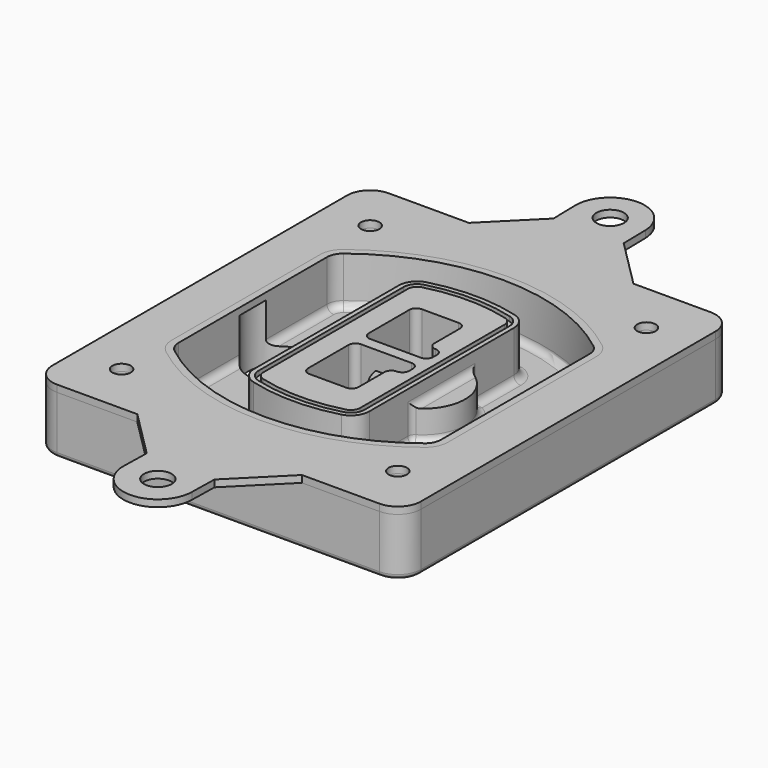
from build123d import *

# Parameters (mm, degrees)
F0_R      = 4
F1_DEPTH  = 25
F2_DEPTH  = 3
F3_DEPTH  = 18
F5_DEPTH  = 21
F6_DEPTH  = 2
F8_DEPTH  = 20
F9_DEPTH  = 16
F10_DEPTH = 25
F7_R      = 6
F7_R_2    = 4
F11_DEPTH = 6
F13_DEPTH = 9
F14_R     = 3
F15_R     = 2
F16_R     = 6
F16_R_2   = 4
F17_DEPTH = 3


with BuildPart() as f1:
    # F0 (on Top) → F1 (new body)
    with BuildSketch(Plane.XY):
        with BuildLine():
            ThreePointArc((-80, -80), (-77.0710678119, -87.0710678119), (-70, -90))
            Line((-70, -90), (70, -90))
            ThreePointArc((70, -90), (77.0710678119, -87.0710678119), (80, -80))
            Line((80, -80), (80, 80))
            ThreePointArc((80, 80), (77.0710678119, 87.0710678119), (70, 90))
            Line((70, 90), (-70, 90))
            ThreePointArc((-70, 90), (-77.0710678119, 87.0710678119), (-80, 80))
            Line((-80, 80), (-80, -80))
        make_face()
        with Locations((-60, -67.5)):
            Circle(F0_R, mode=Mode.SUBTRACT)
        with Locations((60, -67.5)):
            Circle(F0_R, mode=Mode.SUBTRACT)
        with Locations((-60, 67.5)):
            Circle(F0_R, mode=Mode.SUBTRACT)
        with BuildLine():
            ThreePointArc((-64, 40.2934422872), (-62.5820384798, 46.4328484224), (-58.6153846154, 51.3286200352))
            ThreePointArc((-58.6153846154, 51.3286200352), (0, 71.5), (58.6153846154, 51.3286200352))
            ThreePointArc((58.6153846154, 51.3286200352), (62.5820384798, 46.4328484224), (64, 40.2934422872))
            Line((64, 40.2934422872), (64, -40.2934422872))
            ThreePointArc((64, -40.2934422872), (62.5820384798, -46.4328484224), (58.6153846154, -51.3286200352))
            ThreePointArc((58.6153846154, -51.3286200352), (0, -71.5), (-58.6153846154, -51.3286200352))
            ThreePointArc((-58.6153846154, -51.3286200352), (-62.5820384798, -46.4328484224), (-64, -40.2934422872))
            Line((-64, -40.2934422872), (-64, 40.2934422872))
        make_face(mode=Mode.SUBTRACT)
        with Locations((60, 67.5)):
            Circle(F0_R, mode=Mode.SUBTRACT)
        with BuildLine():
            ThreePointArc((58.6153846154, 51.3286200352), (0, 71.5), (-58.6153846154, 51.3286200352))
            ThreePointArc((-58.6153846154, 51.3286200352), (-62.5820384798, 46.4328484224), (-64, 40.2934422872))
            Line((-64, 40.2934422872), (-64, -40.2934422872))
            ThreePointArc((-64, -40.2934422872), (-62.5820384798, -46.4328484224), (-58.6153846154, -51.3286200352))
            ThreePointArc((-58.6153846154, -51.3286200352), (0, -71.5), (58.6153846154, -51.3286200352))
            ThreePointArc((58.6153846154, -51.3286200352), (62.5820384798, -46.4328484224), (64, -40.2934422872))
            Line((64, -40.2934422872), (64, 40.2934422872))
            ThreePointArc((64, 40.2934422872), (62.5820384798, 46.4328484224), (58.6153846154, 51.3286200352))
        make_face()
        with BuildLine():
            Line((-60, -40.2934422872), (-60, 40.2934422872))
            ThreePointArc((-60, 40.2934422872), (-58.9871703427, 44.6787323838), (-56.1538461538, 48.1757121072))
            ThreePointArc((-56.1538461538, 48.1757121072), (0, 67.5), (56.1538461538, 48.1757121072))
            ThreePointArc((56.1538461538, 48.1757121072), (58.9871703427, 44.6787323838), (60, 40.2934422872))
            Line((60, 40.2934422872), (60, -40.2934422872))
            ThreePointArc((60, -40.2934422872), (58.9871703427, -44.6787323838), (56.1538461538, -48.1757121072))
            ThreePointArc((56.1538461538, -48.1757121072), (0, -67.5), (-56.1538461538, -48.1757121072))
            ThreePointArc((-56.1538461538, -48.1757121072), (-58.9871703427, -44.6787323838), (-60, -40.2934422872))
        make_face(mode=Mode.SUBTRACT)
        with BuildLine():
            ThreePointArc((-56.1538461538, 48.1757121072), (-58.9871703427, 44.6787323838), (-60, 40.2934422872))
            Line((-60, 40.2934422872), (-60, -40.2934422872))
            ThreePointArc((-60, -40.2934422872), (-58.9871703427, -44.6787323838), (-56.1538461538, -48.1757121072))
            ThreePointArc((-56.1538461538, -48.1757121072), (0, -67.5), (56.1538461538, -48.1757121072))
            ThreePointArc((56.1538461538, -48.1757121072), (58.9871703427, -44.6787323838), (60, -40.2934422872))
            Line((60, -40.2934422872), (60, 40.2934422872))
            ThreePointArc((60, 40.2934422872), (58.9871703427, 44.6787323838), (56.1538461538, 48.1757121072))
            ThreePointArc((56.1538461538, 48.1757121072), (0, 67.5), (-56.1538461538, 48.1757121072))
        make_face()
        with BuildLine():
            ThreePointArc((54.3076923077, 45.8110311612), (56.2910192399, 43.3631453548), (57, 40.2934422872))
            Line((57, 40.2934422872), (57, -40.2934422872))
            ThreePointArc((57, -40.2934422872), (56.2910192399, -43.3631453548), (54.3076923077, -45.8110311612))
            ThreePointArc((54.3076923077, -45.8110311612), (0, -64.5), (-54.3076923077, -45.8110311612))
            ThreePointArc((-54.3076923077, -45.8110311612), (-56.2910192399, -43.3631453548), (-57, -40.2934422872))
            Line((-57, -40.2934422872), (-57, 40.2934422872))
            ThreePointArc((-57, 40.2934422872), (-56.2910192399, 43.3631453548), (-54.3076923077, 45.8110311612))
            ThreePointArc((-54.3076923077, 45.8110311612), (0, 64.5), (54.3076923077, 45.8110311612))
        make_face(mode=Mode.SUBTRACT)
        with BuildLine():
            Line((57, -40.2934422872), (57, 40.2934422872))
            ThreePointArc((57, 40.2934422872), (56.2910192399, 43.3631453548), (54.3076923077, 45.8110311612))
            ThreePointArc((54.3076923077, 45.8110311612), (0, 64.5), (-54.3076923077, 45.8110311612))
            ThreePointArc((-54.3076923077, 45.8110311612), (-56.2910192399, 43.3631453548), (-57, 40.2934422872))
            Line((-57, 40.2934422872), (-57, -40.2934422872))
            ThreePointArc((-57, -40.2934422872), (-56.2910192399, -43.3631453548), (-54.3076923077, -45.8110311612))
            ThreePointArc((-54.3076923077, -45.8110311612), (0, -64.5), (54.3076923077, -45.8110311612))
            ThreePointArc((54.3076923077, -45.8110311612), (56.2910192399, -43.3631453548), (57, -40.2934422872))
        make_face()
    extrude(amount=-F1_DEPTH)

    # F0 (on Top) → F2 (join)
    with BuildSketch(Plane.XY):
        with BuildLine():
            ThreePointArc((-56.1538461538, 48.1757121072), (-58.9871703427, 44.6787323838), (-60, 40.2934422872))
            Line((-60, 40.2934422872), (-60, -40.2934422872))
            ThreePointArc((-60, -40.2934422872), (-58.9871703427, -44.6787323838), (-56.1538461538, -48.1757121072))
            ThreePointArc((-56.1538461538, -48.1757121072), (0, -67.5), (56.1538461538, -48.1757121072))
            ThreePointArc((56.1538461538, -48.1757121072), (58.9871703427, -44.6787323838), (60, -40.2934422872))
            Line((60, -40.2934422872), (60, 40.2934422872))
            ThreePointArc((60, 40.2934422872), (58.9871703427, 44.6787323838), (56.1538461538, 48.1757121072))
            ThreePointArc((56.1538461538, 48.1757121072), (0, 67.5), (-56.1538461538, 48.1757121072))
        make_face()
        with BuildLine():
            ThreePointArc((54.3076923077, 45.8110311612), (56.2910192399, 43.3631453548), (57, 40.2934422872))
            Line((57, 40.2934422872), (57, -40.2934422872))
            ThreePointArc((57, -40.2934422872), (56.2910192399, -43.3631453548), (54.3076923077, -45.8110311612))
            ThreePointArc((54.3076923077, -45.8110311612), (0, -64.5), (-54.3076923077, -45.8110311612))
            ThreePointArc((-54.3076923077, -45.8110311612), (-56.2910192399, -43.3631453548), (-57, -40.2934422872))
            Line((-57, -40.2934422872), (-57, 40.2934422872))
            ThreePointArc((-57, 40.2934422872), (-56.2910192399, 43.3631453548), (-54.3076923077, 45.8110311612))
            ThreePointArc((-54.3076923077, 45.8110311612), (0, 64.5), (54.3076923077, 45.8110311612))
        make_face(mode=Mode.SUBTRACT)
    extrude(amount=F2_DEPTH)

    # F0 (on Top) → F3 (cut)
    with BuildSketch(Plane.XY):
        with BuildLine():
            Line((57, -40.2934422872), (57, 40.2934422872))
            ThreePointArc((57, 40.2934422872), (56.2910192399, 43.3631453548), (54.3076923077, 45.8110311612))
            ThreePointArc((54.3076923077, 45.8110311612), (0, 64.5), (-54.3076923077, 45.8110311612))
            ThreePointArc((-54.3076923077, 45.8110311612), (-56.2910192399, 43.3631453548), (-57, 40.2934422872))
            Line((-57, 40.2934422872), (-57, -40.2934422872))
            ThreePointArc((-57, -40.2934422872), (-56.2910192399, -43.3631453548), (-54.3076923077, -45.8110311612))
            ThreePointArc((-54.3076923077, -45.8110311612), (0, -64.5), (54.3076923077, -45.8110311612))
            ThreePointArc((54.3076923077, -45.8110311612), (56.2910192399, -43.3631453548), (57, -40.2934422872))
        make_face()
    extrude(amount=-F3_DEPTH, mode=Mode.SUBTRACT)

    # F4 (on face) → F5 (join, through all)
    with BuildSketch(Plane.XY.offset(3)):
        with BuildLine():
            ThreePointArc((-25, -39.2465276821), (-23.3511545998, -44.1109737193), (-19.0842911877, -46.9702398883))
            ThreePointArc((-19.0842911877, -46.9702398883), (0, -49.5), (19.0842911877, -46.9702398883))
            ThreePointArc((19.0842911877, -46.9702398883), (23.3511545998, -44.1109737193), (25, -39.2465276821))
            Line((25, -39.2465276821), (25, 39.2465276821))
            ThreePointArc((25, 39.2465276821), (23.3511545998, 44.1109737193), (19.0842911877, 46.9702398883))
            ThreePointArc((19.0842911877, 46.9702398883), (0, 49.5), (-19.0842911877, 46.9702398883))
            ThreePointArc((-19.0842911877, 46.9702398883), (-23.3511545998, 44.1109737193), (-25, 39.2465276821))
            Line((-25, 39.2465276821), (-25, -39.2465276821))
        make_face()
        with BuildLine():
            ThreePointArc((18.5632183908, 45.0393118368), (21.7633659499, 42.89486221), (23, 39.2465276821))
            Line((23, 39.2465276821), (23, -39.2465276821))
            ThreePointArc((23, -39.2465276821), (21.7633659499, -42.89486221), (18.5632183908, -45.0393118368))
            ThreePointArc((18.5632183908, -45.0393118368), (0, -47.5), (-18.5632183908, -45.0393118368))
            ThreePointArc((-18.5632183908, -45.0393118368), (-21.7633659499, -42.89486221), (-23, -39.2465276821))
            Line((-23, -39.2465276821), (-23, 39.2465276821))
            ThreePointArc((-23, 39.2465276821), (-21.7633659499, 42.89486221), (-18.5632183908, 45.0393118368))
            ThreePointArc((-18.5632183908, 45.0393118368), (0, 47.5), (18.5632183908, 45.0393118368))
        make_face(mode=Mode.SUBTRACT)
        with BuildLine():
            Line((23, -39.2465276821), (23, 39.2465276821))
            ThreePointArc((23, 39.2465276821), (21.7633659499, 42.89486221), (18.5632183908, 45.0393118368))
            ThreePointArc((18.5632183908, 45.0393118368), (0, 47.5), (-18.5632183908, 45.0393118368))
            ThreePointArc((-18.5632183908, 45.0393118368), (-21.7633659499, 42.89486221), (-23, 39.2465276821))
            Line((-23, 39.2465276821), (-23, -39.2465276821))
            ThreePointArc((-23, -39.2465276821), (-21.7633659499, -42.89486221), (-18.5632183908, -45.0393118368))
            ThreePointArc((-18.5632183908, -45.0393118368), (0, -47.5), (18.5632183908, -45.0393118368))
            ThreePointArc((18.5632183908, -45.0393118368), (21.7633659499, -42.89486221), (23, -39.2465276821))
        make_face()
        with BuildLine():
            ThreePointArc((18.0421455939, 43.1083837852), (20.1755772999, 41.6787507007), (21, 39.2465276821))
            Line((21, 39.2465276821), (21, -39.2465276821))
            ThreePointArc((21, -39.2465276821), (20.1755772999, -41.6787507007), (18.0421455939, -43.1083837852))
            ThreePointArc((18.0421455939, -43.1083837852), (0, -45.5), (-18.0421455939, -43.1083837852))
            ThreePointArc((-18.0421455939, -43.1083837852), (-20.1755772999, -41.6787507007), (-21, -39.2465276821))
            Line((-21, -39.2465276821), (-21, 39.2465276821))
            ThreePointArc((-21, 39.2465276821), (-20.1755772999, 41.6787507007), (-18.0421455939, 43.1083837852))
            ThreePointArc((-18.0421455939, 43.1083837852), (0, 45.5), (18.0421455939, 43.1083837852))
        make_face(mode=Mode.SUBTRACT)
        with BuildLine():
            Line((21, -39.2465276821), (21, 39.2465276821))
            ThreePointArc((21, 39.2465276821), (20.1755772999, 41.6787507007), (18.0421455939, 43.1083837852))
            ThreePointArc((18.0421455939, 43.1083837852), (0, 45.5), (-18.0421455939, 43.1083837852))
            ThreePointArc((-18.0421455939, 43.1083837852), (-20.1755772999, 41.6787507007), (-21, 39.2465276821))
            Line((-21, 39.2465276821), (-21, -39.2465276821))
            ThreePointArc((-21, -39.2465276821), (-20.1755772999, -41.6787507007), (-18.0421455939, -43.1083837852))
            ThreePointArc((-18.0421455939, -43.1083837852), (0, -45.5), (18.0421455939, -43.1083837852))
            ThreePointArc((18.0421455939, -43.1083837852), (20.1755772999, -41.6787507007), (21, -39.2465276821))
        make_face()
        with BuildLine():
            Line((-8, -2.5), (14, -2.5))
            ThreePointArc((14, -2.5), (16.1213203436, -3.3786796564), (17, -5.5))
            Line((17, -5.5), (17, -7.5))
            ThreePointArc((17, -7.5), (16.1213203436, -9.6213203436), (14, -10.5))
            ThreePointArc((14, -10.5), (11.8786796564, -11.3786796564), (11, -13.5))
            Line((11, -13.5), (11, -27.5))
            ThreePointArc((11, -27.5), (10.1213203436, -29.6213203436), (8, -30.5))
            Line((8, -30.5), (-8, -30.5))
            ThreePointArc((-8, -30.5), (-10.1213203436, -29.6213203436), (-11, -27.5))
            Line((-11, -27.5), (-11, -5.5))
            ThreePointArc((-11, -5.5), (-10.1213203436, -3.3786796564), (-8, -2.5))
        make_face(mode=Mode.SUBTRACT)
        with BuildLine():
            ThreePointArc((-8, 2.5), (-10.1213203436, 3.3786796564), (-11, 5.5))
            Line((-11, 5.5), (-11, 27.5))
            ThreePointArc((-11, 27.5), (-10.1213203436, 29.6213203436), (-8, 30.5))
            Line((-8, 30.5), (8, 30.5))
            ThreePointArc((8, 30.5), (10.1213203436, 29.6213203436), (11, 27.5))
            Line((11, 27.5), (11, 13.5))
            ThreePointArc((11, 13.5), (11.8786796564, 11.3786796564), (14, 10.5))
            ThreePointArc((14, 10.5), (16.1213203436, 9.6213203436), (17, 7.5))
            Line((17, 7.5), (17, 5.5))
            ThreePointArc((17, 5.5), (16.1213203436, 3.3786796564), (14, 2.5))
            Line((14, 2.5), (-8, 2.5))
        make_face(mode=Mode.SUBTRACT)
    extrude(amount=-F5_DEPTH)

    # F4 (on face) → F6 (cut)
    with BuildSketch(Plane.XY.offset(3)):
        with BuildLine():
            Line((23, -39.2465276821), (23, 39.2465276821))
            ThreePointArc((23, 39.2465276821), (21.7633659499, 42.89486221), (18.5632183908, 45.0393118368))
            ThreePointArc((18.5632183908, 45.0393118368), (0, 47.5), (-18.5632183908, 45.0393118368))
            ThreePointArc((-18.5632183908, 45.0393118368), (-21.7633659499, 42.89486221), (-23, 39.2465276821))
            Line((-23, 39.2465276821), (-23, -39.2465276821))
            ThreePointArc((-23, -39.2465276821), (-21.7633659499, -42.89486221), (-18.5632183908, -45.0393118368))
            ThreePointArc((-18.5632183908, -45.0393118368), (0, -47.5), (18.5632183908, -45.0393118368))
            ThreePointArc((18.5632183908, -45.0393118368), (21.7633659499, -42.89486221), (23, -39.2465276821))
        make_face()
        with BuildLine():
            ThreePointArc((18.0421455939, 43.1083837852), (20.1755772999, 41.6787507007), (21, 39.2465276821))
            Line((21, 39.2465276821), (21, -39.2465276821))
            ThreePointArc((21, -39.2465276821), (20.1755772999, -41.6787507007), (18.0421455939, -43.1083837852))
            ThreePointArc((18.0421455939, -43.1083837852), (0, -45.5), (-18.0421455939, -43.1083837852))
            ThreePointArc((-18.0421455939, -43.1083837852), (-20.1755772999, -41.6787507007), (-21, -39.2465276821))
            Line((-21, -39.2465276821), (-21, 39.2465276821))
            ThreePointArc((-21, 39.2465276821), (-20.1755772999, 41.6787507007), (-18.0421455939, 43.1083837852))
            ThreePointArc((-18.0421455939, 43.1083837852), (0, 45.5), (18.0421455939, 43.1083837852))
        make_face(mode=Mode.SUBTRACT)
    extrude(amount=-F6_DEPTH, mode=Mode.SUBTRACT)

    # F7 (on face) → F8 (join)
    with BuildSketch(Plane(origin=(0, 0, -25), x_dir=(1, 0, 0), z_dir=(0, 0, -1))):
        with BuildLine():
            ThreePointArc((3.28842436, 0), (16.7567035675, 13.4682792075), (30.224982775, 0))
            Line((30.224982775, 0), (35.224982775, 0))
            ThreePointArc((35.224982775, 0), (16.7567035675, 18.4682792075), (-1.71157564, 0))
            Line((-1.71157564, 0), (3.28842436, 0))
        make_face()
        with BuildLine():
            Line((3.28842436, 0), (30.224982775, 0))
            ThreePointArc((30.224982775, 0), (16.7567035675, 13.4682792075), (3.28842436, 0))
        make_face()
        with BuildLine():
            ThreePointArc((3.28842436, 0), (16.7567035675, -13.4682792075), (30.224982775, 0))
            Line((30.224982775, 0), (3.28842436, 0))
        make_face()
        with BuildLine():
            Line((35.224982775, 0), (30.224982775, 0))
            ThreePointArc((30.224982775, 0), (16.7567035675, -13.4682792075), (3.28842436, 0))
            Line((3.28842436, 0), (-1.71157564, 0))
            ThreePointArc((-1.71157564, 0), (16.7567035675, -18.4682792075), (35.224982775, 0))
        make_face()
    extrude(amount=-F8_DEPTH)

    # F7 (on face) → F9 (cut)
    with BuildSketch(Plane(origin=(0, 0, -25), x_dir=(1, 0, 0), z_dir=(0, 0, -1))):
        with BuildLine():
            Line((3.28842436, 0), (30.224982775, 0))
            ThreePointArc((30.224982775, 0), (16.7567035675, 13.4682792075), (3.28842436, 0))
        make_face()
        with BuildLine():
            ThreePointArc((3.28842436, 0), (16.7567035675, -13.4682792075), (30.224982775, 0))
            Line((30.224982775, 0), (3.28842436, 0))
        make_face()
    extrude(amount=-F9_DEPTH, mode=Mode.SUBTRACT)

    # F7 (on face) → F10 (cut)
    with BuildSketch(Plane(origin=(0, 0, -25), x_dir=(1, 0, 0), z_dir=(0, 0, -1))):
        with BuildLine():
            Line((-59.0318229325, 0), (-32.0952645175, 0))
            ThreePointArc((-32.0952645175, 0), (-45.563543725, 13.4682792075), (-59.0318229325, 0))
        make_face()
        with BuildLine():
            ThreePointArc((-59.0318229325, 0), (-45.563543725, -13.4682792075), (-32.0952645175, 0))
            Line((-32.0952645175, 0), (-59.0318229325, 0))
        make_face()
    extrude(amount=-F10_DEPTH, mode=Mode.SUBTRACT)

    # F7 (on face) → F11 (cut)
    with BuildSketch(Plane(origin=(0, 0, -25), x_dir=(1, 0, 0), z_dir=(0, 0, -1))):
        with Locations((60, -67.5)):
            Circle(F7_R)
        with Locations((60, -67.5)):
            Circle(F7_R_2, mode=Mode.SUBTRACT)
        with Locations((60, -67.5)):
            Circle(F7_R)
        with Locations((60, -67.5)):
            Circle(F7_R_2, mode=Mode.SUBTRACT)
        with Locations((-60, -67.5)):
            Circle(F7_R)
        with Locations((-60, -67.5)):
            Circle(F7_R_2, mode=Mode.SUBTRACT)
        with Locations((-60, -67.5)):
            Circle(F7_R)
        with Locations((-60, -67.5)):
            Circle(F7_R_2, mode=Mode.SUBTRACT)
        with Locations((-60, 67.5)):
            Circle(F7_R)
        with Locations((-60, 67.5)):
            Circle(F7_R_2, mode=Mode.SUBTRACT)
        with Locations((-60, 67.5)):
            Circle(F7_R)
        with Locations((-60, 67.5)):
            Circle(F7_R_2, mode=Mode.SUBTRACT)
        with Locations((60, 67.5)):
            Circle(F7_R)
        with Locations((60, 67.5)):
            Circle(F7_R_2, mode=Mode.SUBTRACT)
        with Locations((60, 67.5)):
            Circle(F7_R)
        with Locations((60, 67.5)):
            Circle(F7_R_2, mode=Mode.SUBTRACT)
    extrude(amount=-F11_DEPTH, mode=Mode.SUBTRACT)

    # F12 (on face) → F13 (cut, through all)
    with BuildSketch(Plane(origin=(0, 0, -9), x_dir=(1, 0, 0), z_dir=(0, 0, -1))):
        with BuildLine():
            Line((11, 13.5), (11, 17.5481537753))
            ThreePointArc((11, 17.5481537753), (2.5696536419, 11.8239143813), (-1.5415842455, 2.5))
            Line((-1.5415842455, 2.5), (3.5224848595, 2.5))
            ThreePointArc((3.5224848595, 2.5), (6.1857188154, 8.3455872281), (11.2536447004, 12.2927168648))
            ThreePointArc((11.2536447004, 12.2927168648), (11.0640958889, 12.8831798879), (11, 13.5))
        make_face()
        with BuildLine():
            ThreePointArc((11.2536447004, -12.2927168648), (6.1857188154, -8.3455872281), (3.5224848595, -2.5))
            Line((3.5224848595, -2.5), (-1.5415842455, -2.5))
            ThreePointArc((-1.5415842455, -2.5), (2.5696536419, -11.8239143813), (11, -17.5481537753))
            Line((11, -17.5481537753), (11, -13.5))
            ThreePointArc((11, -13.5), (11.0640958889, -12.8831798879), (11.2536447004, -12.2927168648))
        make_face()
        with BuildLine():
            ThreePointArc((11.2536447004, 12.2927168648), (6.1857188154, 8.3455872281), (3.5224848595, 2.5))
            Line((3.5224848595, 2.5), (14, 2.5))
            ThreePointArc((14, 2.5), (16.1213203436, 3.3786796564), (17, 5.5))
            Line((17, 5.5), (17, 7.5))
            ThreePointArc((17, 7.5), (16.1213203436, 9.6213203436), (14, 10.5))
            ThreePointArc((14, 10.5), (12.3601599782, 10.9878446101), (11.2536447004, 12.2927168648))
        make_face()
        with BuildLine():
            Line((14, -2.5), (3.5224848595, -2.5))
            ThreePointArc((3.5224848595, -2.5), (6.1857188154, -8.3455872281), (11.2536447004, -12.2927168648))
            ThreePointArc((11.2536447004, -12.2927168648), (12.3601599782, -10.9878446101), (14, -10.5))
            ThreePointArc((14, -10.5), (16.1213203436, -9.6213203436), (17, -7.5))
            Line((17, -7.5), (17, -5.5))
            ThreePointArc((17, -5.5), (16.1213203436, -3.3786796564), (14, -2.5))
        make_face()
    extrude(amount=F13_DEPTH, mode=Mode.SUBTRACT)

    # F14
    f14_edges = [f1.edges().sort_by_distance(p)[0] for p in [
        (-57, -23.703476, -18),
        (-57, 23.703476, -18),
        (25, 0, -5),
        (25, 16.526506, -11.5),
        (25, -16.526506, -11.5),
        (25, -27.886517, -18),
        (35.224983, 0, -18),
    ]]
    fillet(f14_edges, radius=F14_R)

    # F15
    f15_edges = [f1.edges().sort_by_distance(p)[0] for p in [
        (0, -90, -25),
    ]]
    fillet(f15_edges, radius=F15_R)


with BuildPart() as f17:
    # F16 (on face) → F17 (new body, through all)
    with BuildSketch(Plane.XY):
        with BuildLine():
            ThreePointArc((14.9969127372, 123.1114468406), (-0.3314002945, 137.7467597904), (-14.9956553882, 122.4461327418))
            Line((-14.9956553882, 122.4461327418), (-14.7068570738, 110.4496084313))
            Line((-14.7068570738, 110.4496084313), (-35.1564655051, 90))
            Line((-35.1564655051, 90), (0, 90))
            Line((0, 90), (36.3542823527, 90))
            Line((36.3542823527, 90), (15.2403657019, 111.1139166509))
            Line((15.2403657019, 111.1139166509), (14.9969127372, 123.1114468406))
        make_face()
        with Locations((0, 122.8071306348)):
            Circle(F16_R, mode=Mode.SUBTRACT)
        with BuildLine():
            ThreePointArc((-14.9956553882, -122.4461327418), (-0.3326576435, -137.8034414775), (14.9969127372, -123.1114468406))
            Line((14.9969127372, -123.1114468406), (15.2403657019, -111.1139166509))
            Line((15.2403657019, -111.1139166509), (36.3542823527, -90))
            Line((36.3542823527, -90), (0, -90))
            Line((0, -90), (-35.1564655051, -90))
            Line((-35.1564655051, -90), (-14.7068570738, -110.4496084313))
            Line((-14.7068570738, -110.4496084313), (-14.9956553882, -122.4461327418))
        make_face()
        with Locations((0, -122.8071306348)):
            Circle(F16_R, mode=Mode.SUBTRACT)
        with BuildLine():
            Line((0, 90), (-35.1564655051, 90))
            Line((-35.1564655051, 90), (-70, 90))
            ThreePointArc((-70, 90), (-77.0710678119, 87.0710678119), (-80, 80))
            Line((-80, 80), (-80, 0))
            Line((-80, 0), (-60, 0))
            Line((-60, 0), (-60, 40.2934422872))
            ThreePointArc((-60, 40.2934422872), (-58.9871703427, 44.6787323838), (-56.1538461538, 48.1757121072))
            ThreePointArc((-56.1538461538, 48.1757121072), (0, 67.5), (56.1538461538, 48.1757121072))
            ThreePointArc((56.1538461538, 48.1757121072), (58.9871703427, 44.6787323838), (60, 40.2934422872))
            Line((60, 40.2934422872), (60, 0))
            Line((60, 0), (80, 0))
            Line((80, 0), (80, 80))
            ThreePointArc((80, 80), (77.0710678119, 87.0710678119), (70, 90))
            Line((70, 90), (36.3542823527, 90))
            Line((36.3542823527, 90), (0, 90))
        make_face()
        with Locations((-60, 67.5)):
            Circle(F16_R_2, mode=Mode.SUBTRACT)
        with Locations((60, 67.5)):
            Circle(F16_R_2, mode=Mode.SUBTRACT)
        with BuildLine():
            Line((-60, 0), (-80, 0))
            Line((-80, 0), (-80, -80))
            ThreePointArc((-80, -80), (-77.0710678119, -87.0710678119), (-70, -90))
            Line((-70, -90), (-35.1564655051, -90))
            Line((-35.1564655051, -90), (0, -90))
            Line((0, -90), (36.3542823527, -90))
            Line((36.3542823527, -90), (70, -90))
            ThreePointArc((70, -90), (77.0710678119, -87.0710678119), (80, -80))
            Line((80, -80), (80, 0))
            Line((80, 0), (60, 0))
            Line((60, 0), (60, -40.2934422872))
            ThreePointArc((60, -40.2934422872), (58.9871703427, -44.6787323838), (56.1538461538, -48.1757121072))
            ThreePointArc((56.1538461538, -48.1757121072), (0, -67.5), (-56.1538461538, -48.1757121072))
            ThreePointArc((-56.1538461538, -48.1757121072), (-58.9871703427, -44.6787323838), (-60, -40.2934422872))
            Line((-60, -40.2934422872), (-60, 0))
        make_face()
        with Locations((-60, -67.5)):
            Circle(F16_R_2, mode=Mode.SUBTRACT)
        with Locations((60, -67.5)):
            Circle(F16_R_2, mode=Mode.SUBTRACT)
    extrude(amount=F17_DEPTH)


solid = Compound([f1.part, f17.part])
